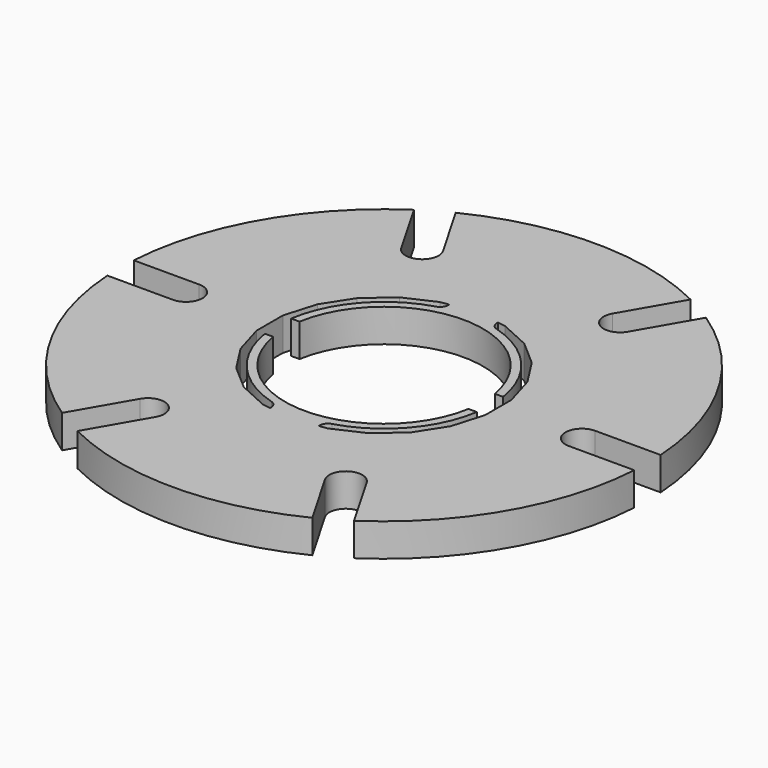
from build123d import *

# Parameters (mm, degrees)
F0_R     = 203.2
F1_DEPTH = 25.4
F3_DEPTH = 25.401
F5_DEPTH = 25.401


with BuildPart() as f1:
    # F0 (on Top) → F1 (new body)
    with BuildSketch(Plane.XY):
        Circle(F0_R)
    extrude(amount=F1_DEPTH)

    # F2 (on face) → F3 (cut, through all)
    with BuildSketch(Plane.XY.offset(25.4)):
        with BuildLine():
            ThreePointArc((-203.2, 12.7), (-215.9, 0), (-203.2, -12.7))
            Line((-203.2, -12.7), (-152.4, -12.7))
            ThreePointArc((-152.4, -12.7), (-139.7, 0), (-152.4, 12.7))
            Line((-152.4, 12.7), (-203.2, 12.7))
        make_face()
        with BuildLine():
            Line((-87.1985226281, -125.6322715367), (-112.399890962, -169.2823219114))
            ThreePointArc((-112.399890962, -169.2823219114), (-101.6, -175.976362049), (-90.4028457059, -181.9823219114))
            Line((-90.4028457059, -181.9823219114), (-65.2014773719, -138.3322715367))
            ThreePointArc((-65.2014773719, -138.3322715367), (-69.85, -120.9837489087), (-87.1985226281, -125.6322715367))
        make_face()
        with BuildLine():
            Line((65.2014773719, -138.3322715367), (90.4028457059, -181.9823219114))
            ThreePointArc((90.4028457059, -181.9823219114), (101.6, -175.976362049), (112.399890962, -169.2823219114))
            Line((112.399890962, -169.2823219114), (87.1985226281, -125.6322715367))
            ThreePointArc((87.1985226281, -125.6322715367), (69.85, -120.9837489087), (65.2014773719, -138.3322715367))
        make_face()
        with BuildLine():
            Line((152.4, -12.7), (202.8027366679, -12.7))
            ThreePointArc((202.8027366679, -12.7), (203.1006598844, -6.353105897), (203.2, 0))
            ThreePointArc((203.2, 0), (203.1006598844, 6.353105897), (202.8027366679, 12.7))
            Line((202.8027366679, 12.7), (152.4, 12.7))
            ThreePointArc((152.4, 12.7), (139.7, 0), (152.4, -12.7))
        make_face()
        with BuildLine():
            ThreePointArc((112.399890962, 169.2823219114), (101.6, 175.976362049), (90.4028457059, 181.9823219114))
            Line((90.4028457059, 181.9823219114), (65.2014773719, 138.3322715367))
            ThreePointArc((65.2014773719, 138.3322715367), (69.85, 120.9837489087), (87.1985226281, 125.6322715367))
            Line((87.1985226281, 125.6322715367), (112.399890962, 169.2823219114))
        make_face()
        with BuildLine():
            ThreePointArc((-90.4028457059, 181.9823219114), (-101.6, 175.976362049), (-112.399890962, 169.2823219114))
            Line((-112.399890962, 169.2823219114), (-87.1985226281, 125.6322715367))
            ThreePointArc((-87.1985226281, 125.6322715367), (-69.85, 120.9837489087), (-65.2014773719, 138.3322715367))
            Line((-65.2014773719, 138.3322715367), (-90.4028457059, 181.9823219114))
        make_face()
    extrude(amount=-F3_DEPTH, mode=Mode.SUBTRACT)

    # F4 (on face) → F5 (cut, through all)
    with BuildSketch(Plane.XY.offset(25.4)):
        with BuildLine():
            ThreePointArc((76.2, 0), (75.9351262608, 6.3479602827), (75.1423464632, 12.6517891225))
            ThreePointArc((75.1423464632, 12.6517891225), (0, 76.2), (-75.1423464632, 12.6517891225))
            ThreePointArc((-75.1423464632, 12.6517891225), (-76.2, 0), (-75.1423464632, -12.6517891225))
            ThreePointArc((-75.1423464632, -12.6517891225), (0, -76.2), (75.1423464632, -12.6517891225))
            ThreePointArc((75.1423464632, -12.6517891225), (75.9351262608, -6.3479602827), (76.2, 0))
        make_face()
        with BuildLine():
            Line((-87.9951261832, 12.6517891225), (-81.5747187062, 12.6517891225))
            ThreePointArc((-81.5747187062, 12.6517891225), (-62.0869878899, 54.4032024311), (-23.2570225673, 79.2061449719))
            ThreePointArc((-23.2570225673, 79.2061449719), (-19.7040643697, 81.8658561635), (-18.7606581473, 86.2026245774))
            Line((-18.7606581473, 86.2026245774), (-25.0460243032, 85.2989253543))
            Line((-25.0460243032, 85.2989253543), (-48.0629686718, 74.7874390687))
            Line((-48.0629686718, 74.7874390687), (-67.1861371601, 58.2171192477))
            Line((-67.1861371601, 58.2171192477), (-80.866284387, 36.9303946559))
            Line((-80.866284387, 36.9303946559), (-87.9951261832, 12.6517891225))
        make_face()
        with BuildLine():
            ThreePointArc((-81.5747187062, -12.6517891225), (-82.55, 0), (-81.5747187062, 12.6517891225))
            Line((-81.5747187062, 12.6517891225), (-87.9951261832, 12.6517891225))
            Line((-87.9951261832, 12.6517891225), (-87.9951261832, -12.6517891225))
            Line((-87.9951261832, -12.6517891225), (-81.5747187062, -12.6517891225))
        make_face()
        with BuildLine():
            ThreePointArc((-75.1423464632, -12.6517891225), (-76.2, 0), (-75.1423464632, 12.6517891225))
            Line((-75.1423464632, 12.6517891225), (-81.5747187062, 12.6517891225))
            ThreePointArc((-81.5747187062, 12.6517891225), (-82.55, 0), (-81.5747187062, -12.6517891225))
            Line((-81.5747187062, -12.6517891225), (-75.1423464632, -12.6517891225))
        make_face()
        with BuildLine():
            ThreePointArc((-23.2570225673, -79.2061449719), (-62.0869878899, -54.4032024311), (-81.5747187062, -12.6517891225))
            Line((-81.5747187062, -12.6517891225), (-87.9951261832, -12.6517891225))
            Line((-87.9951261832, -12.6517891225), (-80.866284387, -36.9303946559))
            Line((-80.866284387, -36.9303946559), (-67.1861371601, -58.2171192477))
            Line((-67.1861371601, -58.2171192477), (-48.0629686718, -74.7874390687))
            Line((-48.0629686718, -74.7874390687), (-25.0460243032, -85.2989253543))
            Line((-25.0460243032, -85.2989253543), (-18.7606581473, -86.2026245774))
            ThreePointArc((-18.7606581473, -86.2026245774), (-19.7040643697, -81.8658561635), (-23.2570225673, -79.2061449719))
        make_face()
        with BuildLine():
            Line((80.866284387, -36.9303946559), (87.9951261832, -12.6517891225))
            Line((87.9951261832, -12.6517891225), (81.5747187062, -12.6517891225))
            ThreePointArc((81.5747187062, -12.6517891225), (62.0869878899, -54.4032024311), (23.2570225673, -79.2061449719))
            ThreePointArc((23.2570225673, -79.2061449719), (19.7040643697, -81.8658561635), (18.7606581473, -86.2026245774))
            Line((18.7606581473, -86.2026245774), (25.0460243032, -85.2989253543))
            Line((25.0460243032, -85.2989253543), (48.0629686718, -74.7874390687))
            Line((48.0629686718, -74.7874390687), (67.1861371601, -58.2171192477))
            Line((67.1861371601, -58.2171192477), (80.866284387, -36.9303946559))
        make_face()
        with BuildLine():
            Line((87.9951261832, -12.6517891225), (87.9951261832, 12.6517891225))
            Line((87.9951261832, 12.6517891225), (81.5747187062, 12.6517891225))
            ThreePointArc((81.5747187062, 12.6517891225), (82.55, 0), (81.5747187062, -12.6517891225))
            Line((81.5747187062, -12.6517891225), (87.9951261832, -12.6517891225))
        make_face()
        with BuildLine():
            ThreePointArc((81.5747187062, -12.6517891225), (82.55, 0), (81.5747187062, 12.6517891225))
            Line((81.5747187062, 12.6517891225), (75.1423464632, 12.6517891225))
            ThreePointArc((75.1423464632, 12.6517891225), (75.9351262608, 6.3479602827), (76.2, 0))
            ThreePointArc((76.2, 0), (75.9351262608, -6.3479602827), (75.1423464632, -12.6517891225))
            Line((75.1423464632, -12.6517891225), (81.5747187062, -12.6517891225))
        make_face()
        with BuildLine():
            Line((81.5747187062, 12.6517891225), (87.9951261832, 12.6517891225))
            Line((87.9951261832, 12.6517891225), (80.866284387, 36.9303946559))
            Line((80.866284387, 36.9303946559), (67.1861371601, 58.2171192477))
            Line((67.1861371601, 58.2171192477), (48.0629686718, 74.7874390687))
            Line((48.0629686718, 74.7874390687), (25.0460243032, 85.2989253543))
            Line((25.0460243032, 85.2989253543), (18.7606581473, 86.2026245774))
            ThreePointArc((18.7606581473, 86.2026245774), (19.7040643697, 81.8658561635), (23.2570225673, 79.2061449719))
            ThreePointArc((23.2570225673, 79.2061449719), (62.0869878899, 54.4032024311), (81.5747187062, 12.6517891225))
        make_face()
    extrude(amount=-F5_DEPTH, mode=Mode.SUBTRACT)


solid = f1.part
